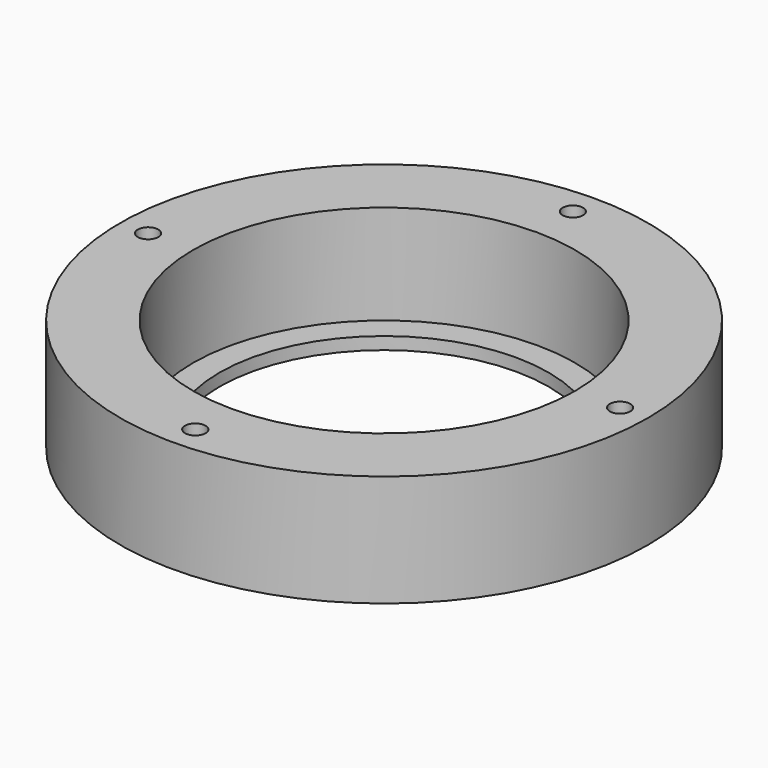
from build123d import *

# Parameters (mm, degrees)
F0_R     = 42.5
F0_R_2   = 1.65
F0_R_3   = 30.75
F1_DEPTH = 16
F2_R     = 42.5
F2_R_2   = 1.65
F2_R_3   = 26.5
F3_DEPTH = 2


with BuildPart() as f1:
    # F0 (on Top) → F1 (new body)
    with BuildSketch(Plane.XY):
        Circle(F0_R)
        with Locations((0, -38)):
            Circle(F0_R_2, mode=Mode.SUBTRACT)
        with Locations((-38, 0)):
            Circle(F0_R_2, mode=Mode.SUBTRACT)
        Circle(F0_R_3, mode=Mode.SUBTRACT)
        with Locations((38, 0)):
            Circle(F0_R_2, mode=Mode.SUBTRACT)
        with Locations((0, 38)):
            Circle(F0_R_2, mode=Mode.SUBTRACT)
    extrude(amount=F1_DEPTH)

    # F2 (on Top) → F3 (join)
    with BuildSketch(Plane.XY):
        Circle(F2_R)
        with Locations((0, -38)):
            Circle(F2_R_2, mode=Mode.SUBTRACT)
        with Locations((-38, 0)):
            Circle(F2_R_2, mode=Mode.SUBTRACT)
        Circle(F2_R_3, mode=Mode.SUBTRACT)
        with Locations((38, 0)):
            Circle(F2_R_2, mode=Mode.SUBTRACT)
        with Locations((0, 38)):
            Circle(F2_R_2, mode=Mode.SUBTRACT)
    extrude(amount=-F3_DEPTH)


solid = f1.part
